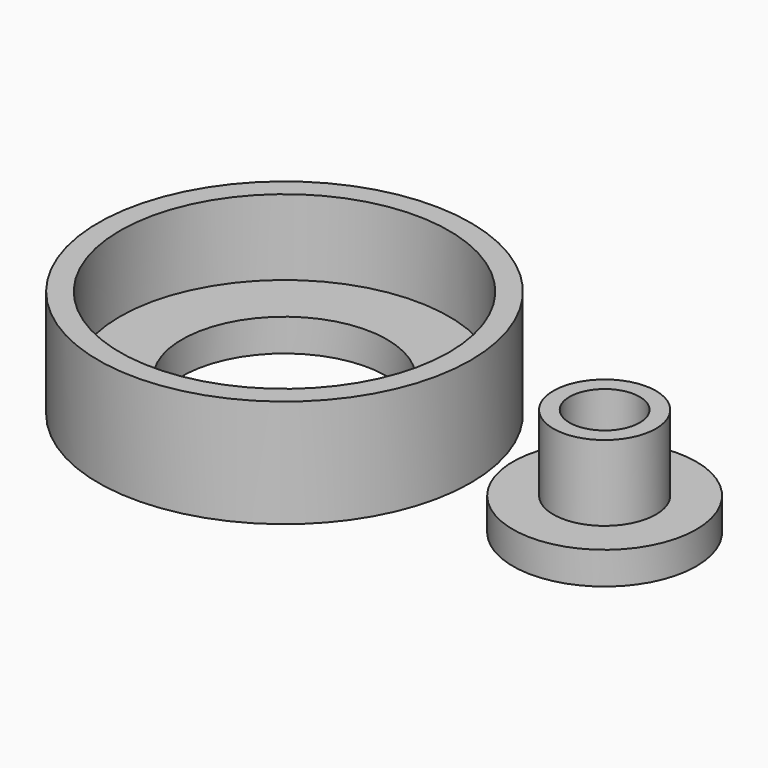
from build123d import *

# Parameters (mm, degrees)
F0_R     = 15.25
F0_R_2   = 9.5
F0_R_3   = 8.5
F0_R_4   = 4.75
F1_DEPTH = 3
F0_R_5   = 17.25
F0_R_6   = 3.25
F2_DEPTH = 10


with BuildPart() as f1:
    # F0 (on Top) → F1 (new body)
    with BuildSketch(Plane.XY):
        with Locations((-39.146479, 0)):
            Circle(F0_R)
        with Locations((-39.146479, 0)):
            Circle(F0_R_2, mode=Mode.SUBTRACT)
        with Locations((-9.490055, 0)):
            Circle(F0_R_3)
        with Locations((-9.490055, 0)):
            Circle(F0_R_4, mode=Mode.SUBTRACT)
    extrude(amount=F1_DEPTH)


with BuildPart() as f2:
    # F0 (on Top) → F2 (new body)
    with BuildSketch(Plane.XY):
        with Locations((-39.146479, 0)):
            Circle(F0_R_5)
        with Locations((-39.146479, 0)):
            Circle(F0_R, mode=Mode.SUBTRACT)
        with Locations((-9.490055, 0)):
            Circle(F0_R_4)
        with Locations((-9.490055, 0)):
            Circle(F0_R_6, mode=Mode.SUBTRACT)
    extrude(amount=F2_DEPTH)


solid = Compound([f1.part, f2.part])
